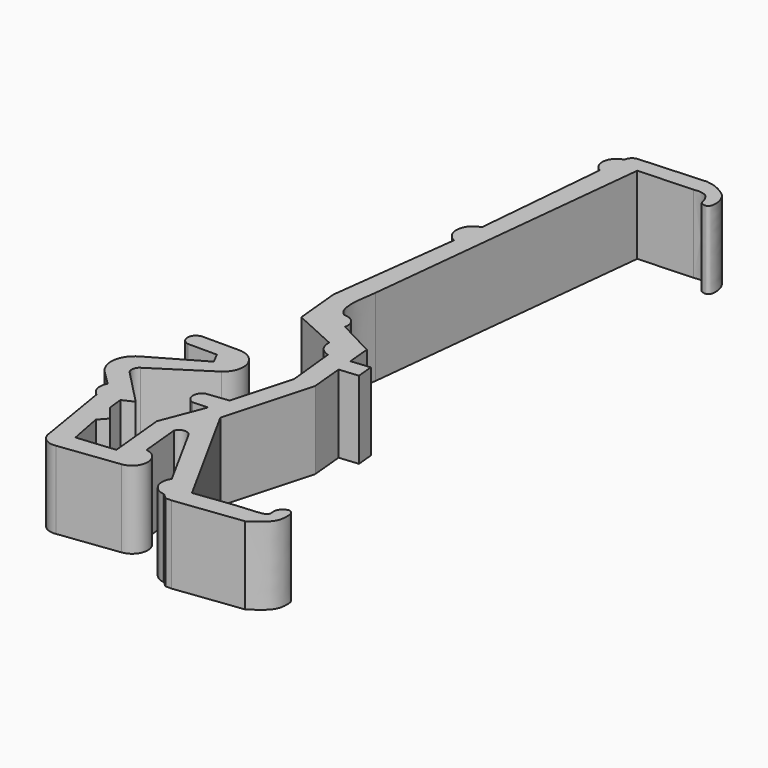
from build123d import *

# Parameters (mm, degrees)
F1_DEPTH = 10


with BuildPart() as f1:
    # F0 (on Top) → F1 (new body)
    with BuildSketch(Plane.XY):
        with BuildLine():
            ThreePointArc((-47.1334606409, 4.24050726), (-48.2184275947, 3.2468906166), (-47.3238229752, 2.0789394621))
            Line((-47.3238229752, 2.0789394621), (-43.5846773794, 2.0789394621))
            Line((-43.5846773794, 2.0789394621), (-42.8638177577, 0.68372687))
            Line((-42.8638177577, 0.68372687), (-49.440199136, -3.1066419031))
            ThreePointArc((-49.440199136, -3.1066419031), (-50.9309363264, -5.3357075717), (-50.0683161516, -7.8747856642))
            Line((-50.0683161516, -7.8747856642), (-48.2035279274, -9.7373891622))
            ThreePointArc((-48.2035279274, -9.7373891622), (-48.382146287, -11.12464418), (-47.599978745, -12.2842108831))
            Line((-47.599978745, -12.2842108831), (-46.0284352303, -21.7972807586))
            ThreePointArc((-46.0284352303, -21.7972807586), (-45.3219050723, -23.1740614679), (-43.8167899847, -23.5336981714))
            Line((-43.8167899847, -23.5336981714), (-36.1399948597, -22.5649606436))
            ThreePointArc((-36.1399948597, -22.5649606436), (-34.3767801937, -20.5693286364), (-36.1319184303, -18.5665898025))
            Line((-36.1319184303, -18.5665898025), (-36.620231647, -13.5695006156))
            ThreePointArc((-36.620231647, -13.5695006156), (-35.7891965196, -12.9115357623), (-34.8540693521, -13.4106092155))
            Line((-34.8540693521, -13.4106092155), (-30.2046835423, -21.909236908))
            ThreePointArc((-30.2046835423, -21.909236908), (-30.4209968988, -23.7678779021), (-28.9669118833, -24.945576752))
            Line((-28.9669118833, -24.945576752), (-28.7225618528, -24.9894898731))
            Line((-28.7225618528, -24.9894898731), (-28.0923247337, -25.5737565458))
            Line((-28.0923247337, -25.5737565458), (-27.3081250489, -25.5742445588))
            Line((-27.3081250489, -25.5742445588), (-18.6743885279, -24.495286867))
            add(Edge.make_bspline(
                [(-26.7099738121, -23.0242479593), (-24.5610024874, -22.72475134), (-20.9925861048, -22.2274303054), (-17.4086116689, -22.1735029915), (-17.9853982565, -20.7755639724), (-17.2585243215, -20.0151400787), (-16.5666192529, -19.7550899052), (-16.1163061938, -20.2468830163), (-16.0341516075, -20.9201256889), (-16.0845187957, -22.7529397044), (-17.7221101538, -23.8546370681), (-18.6743885279, -24.495286867)],
                knots=[0, 0, 0, 0, 0.2179109772, 0.3618461968, 0.4463829803, 0.5319265573, 0.6022760425, 0.665917535, 0.7367060006, 0.8468914846, 1, 1, 1, 1], degree=3))
            Line((-26.7099738121, -23.0242479593), (-34.7293438822, -8.4391936127))
            Line((-34.7293438822, -8.4391936127), (-31.5929712516, 2.935023874))
            Line((-31.5929712516, 2.935023874), (-31.9926995888, 7.1899935128))
            Line((-31.9926995888, 7.1899935128), (-29.5516459117, 7.4193155551))
            Line((-29.5516459117, 7.4193155551), (-29.7544170171, 9.5777437091))
            Line((-29.7544170171, 9.5777437091), (-32.1954706942, 9.3484216668))
            Line((-32.1954706942, 9.3484216668), (-32.4758253864, 12.3327002189))
            Line((-32.4758253864, 12.3327002189), (-37.3013366167, 14.8660017231))
            ThreePointArc((-37.3013366167, 14.8660017231), (-37.6394527685, 16.2531306263), (-38.9529615641, 16.81272313))
            add(Edge.make_bspline(
                [(-39.5372062922, 22.5298274308), (-39.7299415878, 21.3944398578), (-40.0689635602, 19.3972896568), (-39.6985270328, 17.3561920377), (-39.1649146722, 16.9672232095), (-38.9529615641, 16.81272313)],
                knots=[0, 0, 0, 0, 0.4426466964, 0.7786168879, 1, 1, 1, 1], degree=3))
            Line((-39.5372062922, 22.5298274308), (-35.5924814939, 59.7782693803))
            Line((-35.5924814939, 59.7782693803), (-28.5925064236, 60.1117089391))
            add(Edge.make_bspline(
                [(-28.5925064236, 62.3026639223), (-28.1946501943, 62.2451351219), (-27.401884611, 62.1305032552), (-26.1089580985, 61.4007717023), (-25.3972112456, 60.7892662033), (-24.9926069502, 59.8338117884), (-24.9083193932, 59.0663103092), (-24.9883113807, 58.476764785), (-25.2238973669, 58.1851832624), (-25.449331274, 58.0986735665), (-25.8711253773, 58.1802532166), (-26.1843177088, 58.28716389), (-26.2608719689, 58.8085191398), (-26.4197918827, 59.2228854981), (-26.7364614087, 59.7115212257), (-27.0285110172, 59.9945013158), (-27.4982464178, 60.0848488731), (-27.7592040048, 60.203833896), (-28.4245371456, 60.1159033663), (-28.5925064236, 60.1117089391)],
                knots=[0, 0, 0, 0, 0.0842209767, 0.1763686085, 0.2506493874, 0.3270090317, 0.3948333971, 0.4529093116, 0.4975631569, 0.533859584, 0.5834852333, 0.6254928184, 0.6781698792, 0.7307302492, 0.7884419265, 0.8373157645, 0.8878212992, 0.931447869, 1, 1, 1, 1], degree=3))
            Line((-28.5925064236, 62.3026639223), (-37.1707508784, 61.8070340284))
            ThreePointArc((-37.1707508784, 61.8070340284), (-37.8091537729, 61.4984472715), (-38.1004847586, 60.8519874513))
            ThreePointArc((-38.1004847586, 60.8519874513), (-39.5037517469, 59.3408674909), (-38.5977178812, 57.4883706868))
            Line((-38.5977178812, 57.4883706868), (-40.1034839451, 40.3997898102))
            ThreePointArc((-40.1034839451, 40.3997898102), (-41.7178777086, 38.5564792503), (-40.5101442445, 36.4244752814))
            Line((-40.5101442445, 36.4244752814), (-42.607627809, 19.6188613772))
            Line((-42.607627809, 19.6188613772), (-42.042707849, 13.748040056))
            Line((-42.042707849, 13.748040056), (-36.3861749058, 11.1716050712))
            ThreePointArc((-36.3861749058, 11.1716050712), (-36.0163113593, 9.8179473922), (-34.8480753601, 9.040507488))
            Line((-34.8480753601, 9.040507488), (-34.187246114, 2.7800370008))
            Line((-34.187246114, 2.7800370008), (-36.3161414862, -4.9405121244))
            Line((-36.3161414862, -4.9405121244), (-39.1943193972, -5.2743563429))
            ThreePointArc((-39.1943193972, -5.2743563429), (-39.8965121766, -6.4897612797), (-38.9853417873, -7.5574936345))
            Line((-38.9853417873, -7.5574936345), (-37.0849817991, -7.4687479064))
            Line((-37.0849817991, -7.4687479064), (-39.2402373254, -13.0364866927))
            Line((-39.2402373254, -13.0364866927), (-38.5174039547, -20.4335070832))
            Line((-38.5174039547, -20.4335070832), (-43.4154735281, -20.9121441496))
            Line((-43.4154735281, -20.9121441496), (-44.2489720881, -16.5843740106))
            Line((-44.2489720881, -16.5843740106), (-43.2869046926, -15.5225992203))
            Line((-43.2869046926, -15.5225992203), (-44.7774641216, -13.6179979891))
            Line((-44.7774641216, -13.6179979891), (-44.984485954, -11.7133967578))
            Line((-44.984485954, -11.7133967578), (-43.5445792973, -11.0421758145))
            Line((-43.5445792973, -11.0421758145), (-47.9647588406, -6.4828994504))
            ThreePointArc((-47.9647588406, -6.4828994504), (-48.2402205898, -5.6724392704), (-47.7877671576, -4.9457957743))
            Line((-47.7877671576, -4.9457957743), (-40.9187972546, -0.5274338182))
            ThreePointArc((-40.9187972546, -0.5274338182), (-39.9298258417, 2.4098977876), (-42.4307957292, 4.24050726))
            Line((-42.4307957292, 4.24050726), (-47.1334606409, 4.24050726))
        make_face()
    extrude(amount=F1_DEPTH)


solid = f1.part
